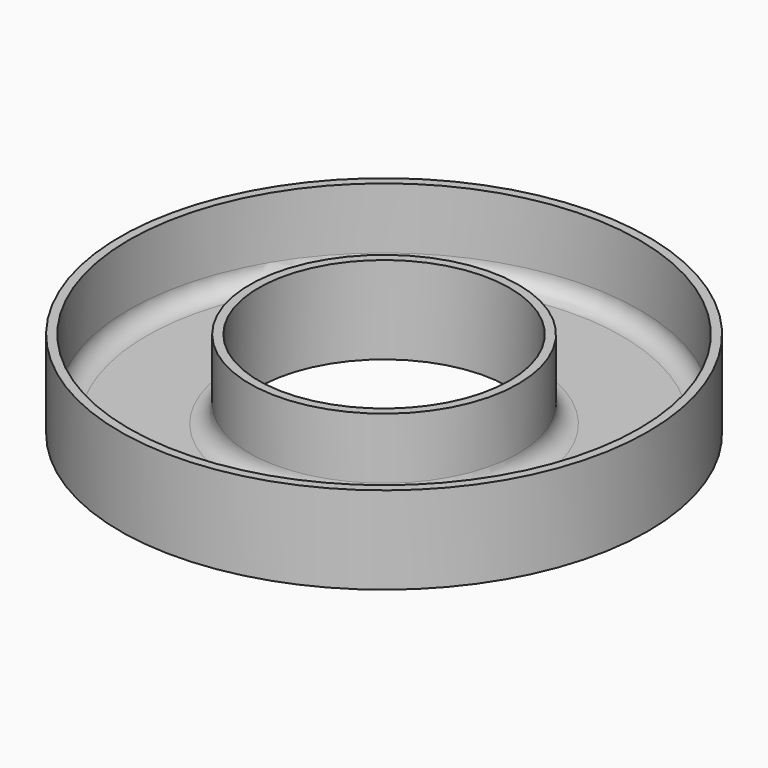
from build123d import *

# Parameters (mm, degrees)
F0_R     = 76.6222869854
F0_R_2   = 36.4455054166
F1_DEPTH = 25.4
F2_T     = -2.54
F3_R     = 5.08


with BuildPart() as f1:
    # F0 (on Top) → F1 (new body)
    with BuildSketch(Plane.XY):
        Circle(F0_R)
        Circle(F0_R_2, mode=Mode.SUBTRACT)
    extrude(amount=F1_DEPTH)

    # F2
    f2_openings = [f1.faces().sort_by_distance(p)[0] for p in [
        (-74.455081, 0, 25.4),
    ]]
    offset(amount=F2_T, openings=f2_openings)

    # F3
    f3_edges = [f1.edges().sort_by_distance(p)[0] for p in [
        (-74.082287, 0, 2.54),
        (-38.985505, 0, 2.54),
    ]]
    fillet(f3_edges, radius=F3_R)


solid = f1.part
